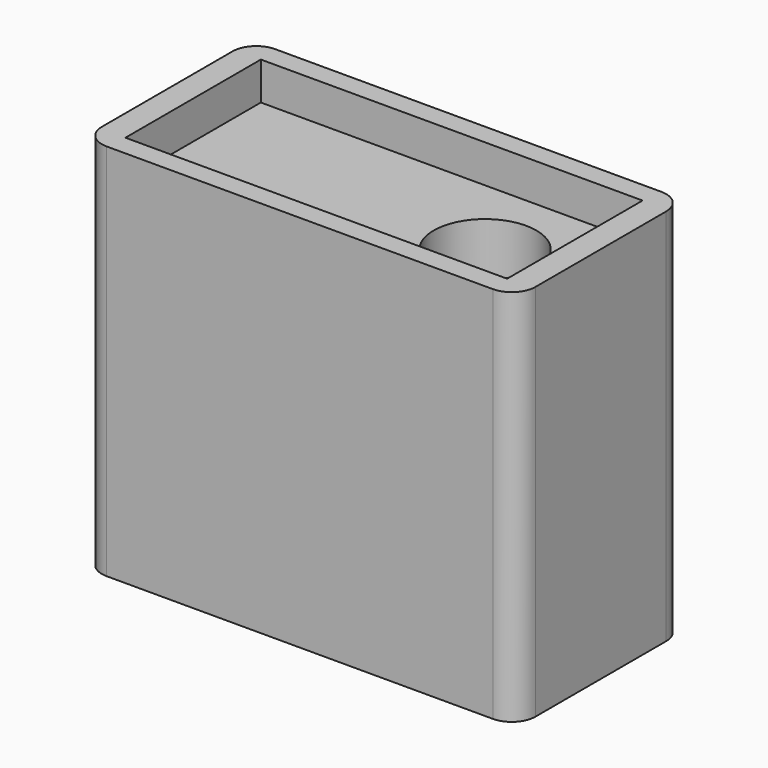
from build123d import *

# Parameters (mm, degrees)
F0_W     = 91.6726738214
F0_H     = 44.5580258965
F0_W_2   = 80.7157829404
F0_H_2   = 35.7925109565
F1_DEPTH = 80
F2_START = 9
F0_R     = 10.8590602413
F2_DEPTH = 63
F3_R     = 5


with BuildPart() as f1:
    # F0 (on Top) → F1 (new body)
    with BuildSketch(Plane.XY):
        Rectangle(F0_W, F0_H)
        Rectangle(F0_W_2, F0_H_2, mode=Mode.SUBTRACT)
    extrude(amount=F1_DEPTH)

    # F0 (on Top) → F2 (join)
    with BuildSketch(Plane.XY.offset(F2_START)):
        Rectangle(F0_W_2, F0_H_2)
        with Locations((21.3659498841, 0)):
            Circle(F0_R, mode=Mode.SUBTRACT)
    extrude(amount=F2_DEPTH)

    # F3
    f3_edges = [f1.edges().sort_by_distance(p)[0] for p in [
        (45.836337, -22.279013, 40),
        (45.836337, 22.279013, 40),
        (-45.836337, 22.279013, 40),
        (-45.836337, -22.279013, 40),
    ]]
    fillet(f3_edges, radius=F3_R)


solid = f1.part
